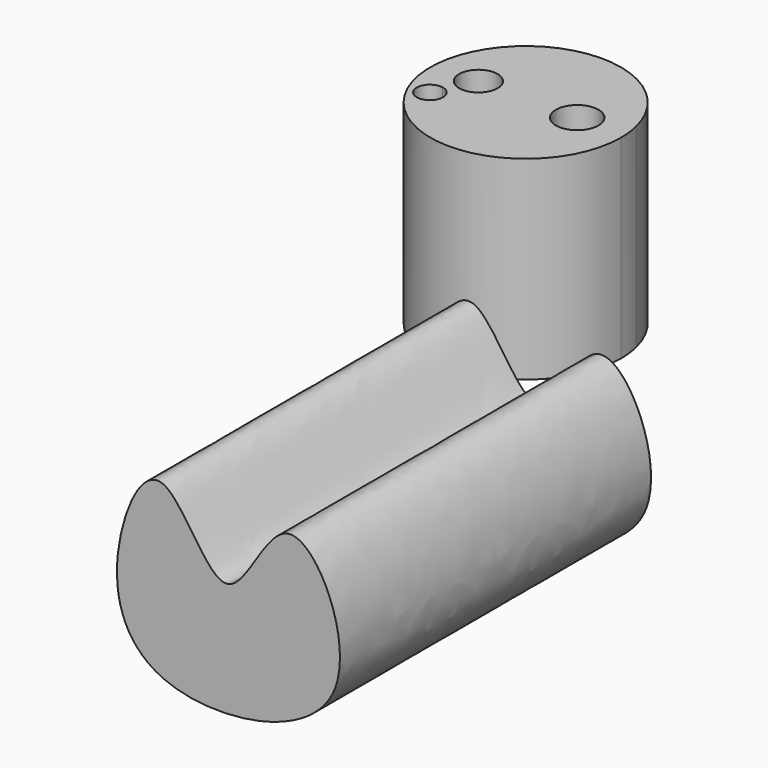
from build123d import *

# Parameters (mm, degrees)
F2_DEPTH = 100
F0_R     = 4.9522272502
F0_R_2   = 5.481582989
F3_DEPTH = 50


with BuildPart() as f2:
    # F1 (on Front) → F2 (new body)
    with BuildSketch(Plane.XZ):
        with BuildLine():
            add(Edge.make_bspline(
                [(-31.6340103745, 7.1222772822), (-30.5628917598, 17.2282395377), (-20.6122691683, 40.4495124329), (-3.2856858085, -6.0491913434), (11.7518349966, 43.6420998726), (39.8217277505, -16.1082937427), (-24.8570588634, -25.6891471823), (-32.8189028057, -4.0571364834), (-31.6340103745, 7.1222772822)],
                knots=[0, 0, 0, 0, 0.1481546106, 0.3004446529, 0.4489568779, 0.6281284572, 0.8361084624, 1, 1, 1, 1], degree=3))
        make_face()
    extrude(amount=F2_DEPTH)


with BuildPart() as f3:
    # F0 (on Top) → F3 (new body)
    with BuildSketch(Plane.XY):
        with BuildLine():
            ThreePointArc((-15.0938973437, 45.8907420162), (-63.2958138696, 37.3897375566), (-14.4328499257, 40.2362421155))
            ThreePointArc((-14.4328499257, 40.2362421155), (-14.5986726174, 43.0827466744), (-15.0938973437, 45.8907420162))
        make_face()
        with BuildLine():
            ThreePointArc((-53.2940074724, 31.6252969205), (-59.2430153262, 29.4279429634), (-56.1507603282, 34.9648209542))
            ThreePointArc((-56.1507603282, 34.9648209542), (-55.029870499, 34.5786530499), (-54.1112564032, 33.8292080536))
            ThreePointArc((-54.1112564032, 33.8292080536), (-53.5048982172, 32.8005756212), (-53.2940074724, 31.6252969205))
        make_face(mode=Mode.SUBTRACT)
        with Locations((-52.1388205975, 41.5477342904)):
            Circle(F0_R, mode=Mode.SUBTRACT)
        with Locations((-26.7388205975, 41.5477342904)):
            Circle(F0_R_2, mode=Mode.SUBTRACT)
    extrude(amount=F3_DEPTH)


solid = Compound([f2.part, f3.part])
